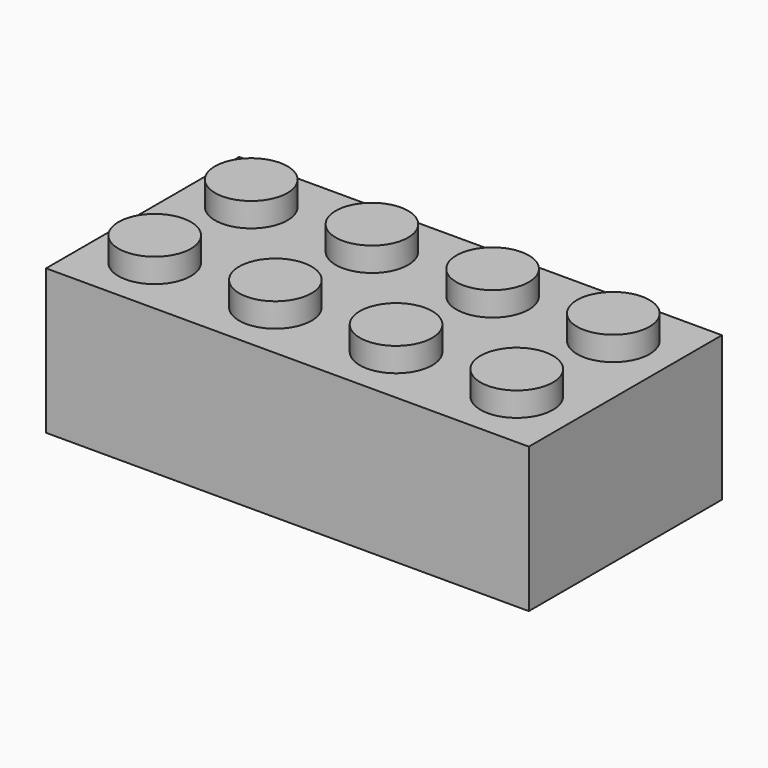
from build123d import *

# Parameters (mm, degrees)
F0_W     = 31.75
F0_H     = 15.875
F0_R     = 2.38125
F1_DEPTH = 9.525
F2_DEPTH = 11.1125
F3_T     = -1.5875
F4_R     = 3.175
F4_R_2   = 2.38125
F5_DEPTH = 7.9375


with BuildPart() as f1:
    # F0 (on Top) → F1 (new body)
    with BuildSketch(Plane.XY):
        with Locations((0, -3.96875)):
            Rectangle(F0_W, F0_H)
        with Locations((-11.90625, -7.9375)):
            Circle(F0_R, mode=Mode.SUBTRACT)
        with Locations((-3.96875, -7.9375)):
            Circle(F0_R, mode=Mode.SUBTRACT)
        with Locations((3.96875, -7.9375)):
            Circle(F0_R, mode=Mode.SUBTRACT)
        with Locations((11.90625, -7.9375)):
            Circle(F0_R, mode=Mode.SUBTRACT)
        with Locations((-11.90625, 0)):
            Circle(F0_R, mode=Mode.SUBTRACT)
        with Locations((-3.96875, 0)):
            Circle(F0_R, mode=Mode.SUBTRACT)
        with Locations((3.96875, 0)):
            Circle(F0_R, mode=Mode.SUBTRACT)
        with Locations((11.90625, 0)):
            Circle(F0_R, mode=Mode.SUBTRACT)
    extrude(amount=F1_DEPTH)

    # F0 (on Top) → F2 (join)
    with BuildSketch(Plane.XY):
        with Locations((-11.90625, 0)):
            Circle(F0_R)
        with Locations((-11.90625, -7.9375)):
            Circle(F0_R)
        with Locations((-3.96875, -7.9375)):
            Circle(F0_R)
        with Locations((-3.96875, 0)):
            Circle(F0_R)
        with Locations((3.96875, 0)):
            Circle(F0_R)
        with Locations((3.96875, -7.9375)):
            Circle(F0_R)
        with Locations((11.90625, -7.9375)):
            Circle(F0_R)
        with Locations((11.90625, 0)):
            Circle(F0_R)
    extrude(amount=F2_DEPTH)

    # F3
    f3_openings = [f1.faces().sort_by_distance(p)[0] for p in [
        (0, -3.96875, 0),
    ]]
    offset(amount=F3_T, openings=f3_openings, kind=Kind.INTERSECTION)

    # F4 (on face) → F5 (join)
    with BuildSketch(Plane(origin=(0, 0, 7.9375), x_dir=(1, 0, 0), z_dir=(0, 0, -1))):
        with BuildLine():
            ThreePointArc((-4.7625, 3.96875), (-6.7224801022, 6.9020675157), (-10.1825640303, 6.2138140303))
            Line((-10.1825640303, 6.2138140303), (-9.6212980227, 5.6525480227))
            ThreePointArc((-9.6212980227, 5.6525480227), (-7.0262350767, 6.1687381368), (-5.55625, 3.96875))
            ThreePointArc((-5.55625, 3.96875), (-5.7375118632, 3.0574850767), (-6.2537019773, 2.2849519773))
            Line((-6.2537019773, 2.2849519773), (-5.6924359697, 1.7236859697))
            ThreePointArc((-5.6924359697, 1.7236859697), (-5.0041824843, 2.7537301022), (-4.7625, 3.96875))
        make_face()
        with BuildLine():
            Line((-9.6212980227, 5.6525480227), (-10.1825640303, 6.2138140303))
            ThreePointArc((-10.1825640303, 6.2138140303), (-10.1825640303, 1.7236859697), (-5.6924359697, 1.7236859697))
            Line((-5.6924359697, 1.7236859697), (-6.2537019773, 2.2849519773))
            ThreePointArc((-6.2537019773, 2.2849519773), (-9.6212980227, 2.2849519773), (-9.6212980227, 5.6525480227))
        make_face()
        with Locations((0, 3.96875)):
            Circle(F4_R)
        with Locations((0, 3.96875)):
            Circle(F4_R_2, mode=Mode.SUBTRACT)
        with Locations((7.9375, 3.96875)):
            Circle(F4_R)
        with Locations((7.9375, 3.96875)):
            Circle(F4_R_2, mode=Mode.SUBTRACT)
    extrude(amount=F5_DEPTH)


solid = f1.part
